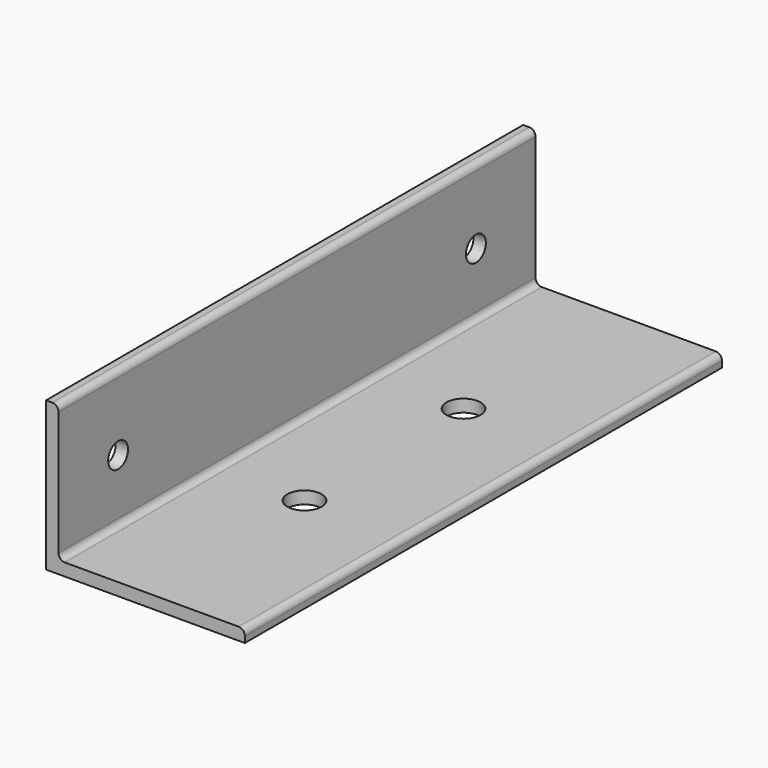
from build123d import *

# Parameters (mm, degrees)
F1_DEPTH = 152.4
F2_R     = 8.73125
F3_DEPTH = 76.201
F4_R     = 6.35
F5_DEPTH = 101.601


with BuildPart() as f1:
    # F0 (on Front) → F1 (new body, symmetric)
    with BuildSketch(Plane.XZ):
        with BuildLine():
            Line((3.175, 76.2), (0, 76.2))
            Line((0, 76.2), (0, 0))
            Line((0, 0), (101.6, 0))
            Line((101.6, 0), (101.6, 3.175))
            ThreePointArc((101.6, 3.175), (100.6700640303, 5.4200640303), (98.425, 6.35))
            Line((98.425, 6.35), (9.525, 6.35))
            ThreePointArc((9.525, 6.35), (7.2799359697, 7.2799359697), (6.35, 9.525))
            Line((6.35, 9.525), (6.35, 73.025))
            ThreePointArc((6.35, 73.025), (5.4200640303, 75.2700640303), (3.175, 76.2))
        make_face()
    extrude(amount=F1_DEPTH, both=True)

    # F2 (on face) → F3 (cut, through all)
    with BuildSketch(Plane(origin=(0, 0, 0), x_dir=(1, 0, 0), z_dir=(0, 0, -1))):
        with Locations((50.8, 50.8)):
            Circle(F2_R)
        with Locations((50.8, -50.8)):
            Circle(F2_R)
    extrude(amount=-F3_DEPTH, mode=Mode.SUBTRACT)

    # F4 (on face) → F5 (cut, through all)
    with BuildSketch(Plane(origin=(0, 0, 0), x_dir=(0, -1, 0), z_dir=(-1, 0, 0))):
        with Locations((-114.3, 38.1)):
            Circle(F4_R)
        with Locations((114.3, 38.1)):
            Circle(F4_R)
    extrude(amount=-F5_DEPTH, mode=Mode.SUBTRACT)


solid = f1.part
